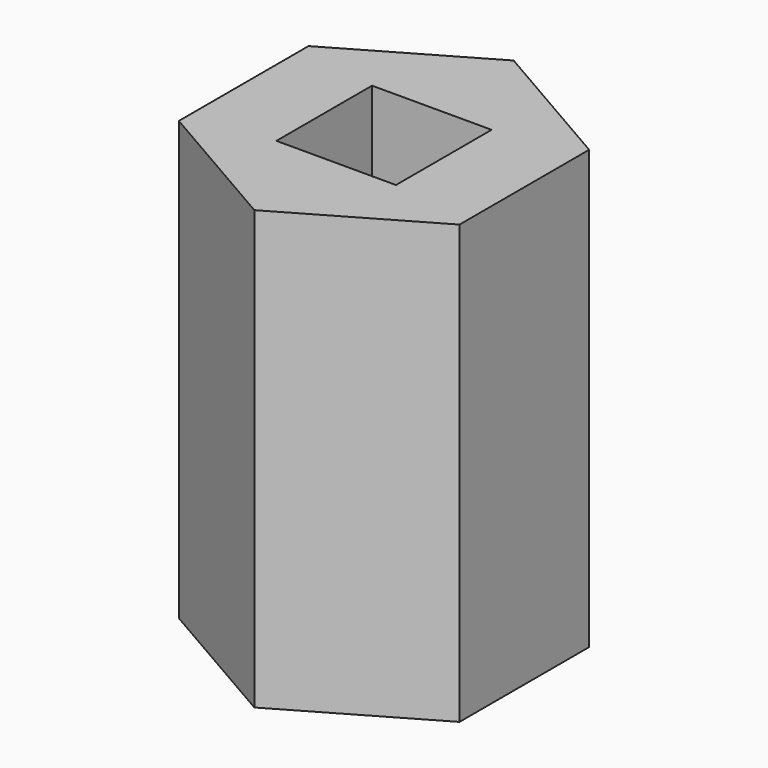
from build123d import *

# Parameters (mm, degrees)
SKETCH_W  = 2.7051
SKETCH_H  = 2.7051
PAD_DEPTH = 9.906


with BuildPart() as part:
    # Sketch → Pad (new body)
    with BuildSketch(Plane.XY):
        Polygon((0, 3.666174), (-3.175, 1.833087), (-3.175, -1.833087), (0, -3.666174), (3.175, -1.833087), (3.175, 1.833087), align=None)
        Rectangle(SKETCH_W, SKETCH_H, mode=Mode.SUBTRACT)
    extrude(amount=PAD_DEPTH)


solid = part.part
